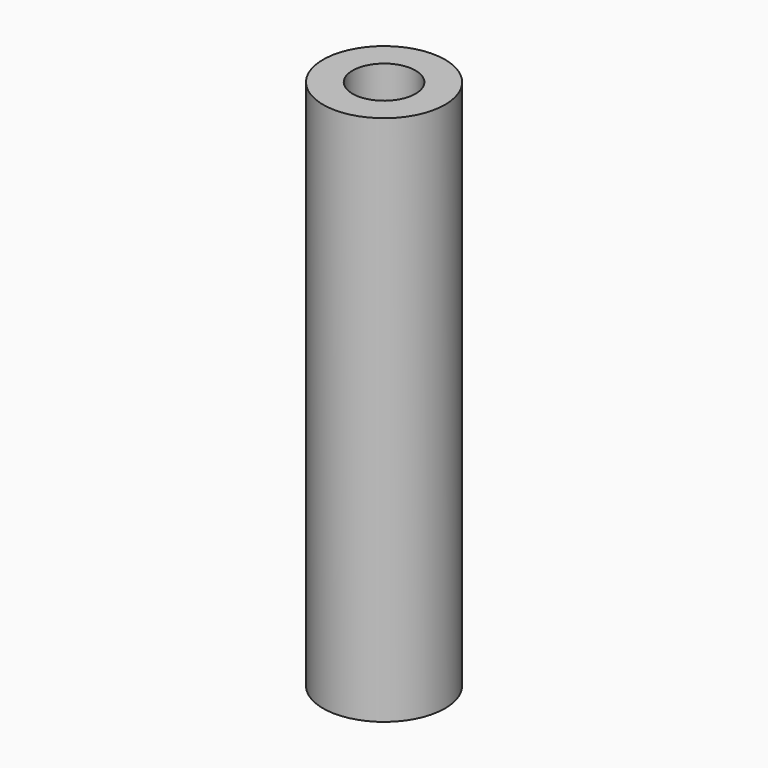
from build123d import *

# Parameters (mm, degrees)
SKETCH_R   = 3.1
SKETCH_R_2 = 1.6
PAD_DEPTH  = 27


with BuildPart() as part:
    # Sketch → Pad (new body)
    with BuildSketch(Plane.XY):
        Circle(SKETCH_R)
        Circle(SKETCH_R_2, mode=Mode.SUBTRACT)
    extrude(amount=PAD_DEPTH)


solid = part.part
